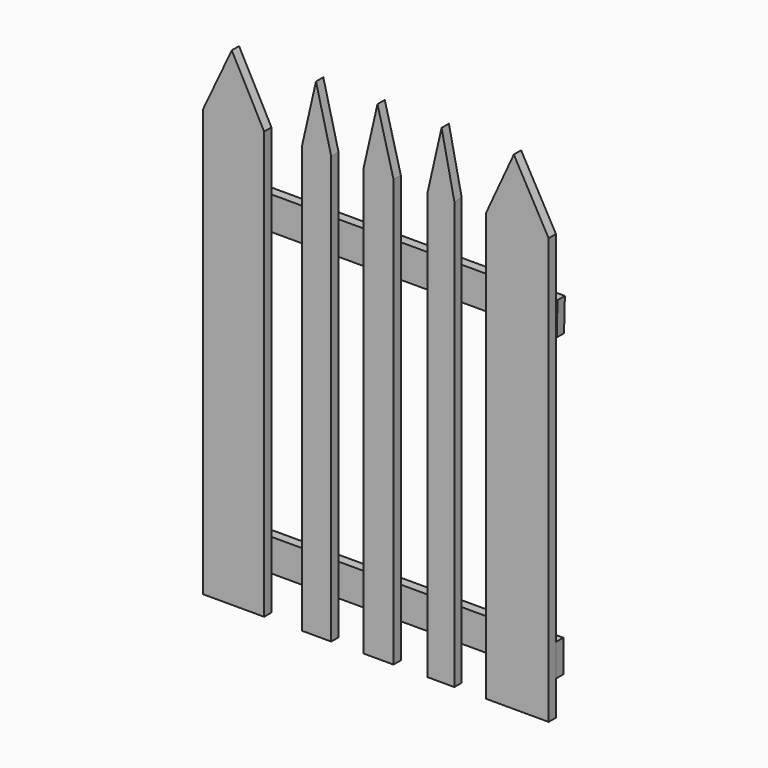
from build123d import *

# Parameters (mm, degrees)
F2_DEPTH = 3
F4_DEPTH = 3
F5_W     = 114.6537661552
F5_H     = 10.5847641826
F6_DEPTH = 3


with BuildPart() as f2:
    # F0 (on Front) → F2 (new body)
    with BuildSketch(Plane.XZ):
        Polygon((-45.9947801825, 52.4159106612), (-45.9947801825, -87.5840893388), (-36.4417050134, -87.5840893388), (-36.4417050134, 52.4159106612), (-41.430143982, 72.4159106612), align=None)
    extrude(amount=F2_DEPTH)


with BuildPart() as f2b:
    # F0 (on Front) → F2, piece 2 (new body)
    with BuildSketch(Plane.XZ):
        Polygon((-78.4224574716, 52.4159106612), (-78.4224574716, -87.5840893388), (-58.4224574716, -87.5840893388), (-58.4224574716, 52.4159106612), (-69.0362897647, 72.4159106612), align=None)
    extrude(amount=F2_DEPTH)


with BuildPart() as f2c:
    # F0 (on Front) → F2, piece 3 (new body)
    with BuildSketch(Plane.XZ):
        Polygon((-4.8327921589, 52.4159106612), (-4.8327921589, -87.5840893388), (3.9241904943, -87.5840893388), (3.9241904943, 52.4159106612), (-0.2681559585, 72.4159106612), align=None)
    extrude(amount=F2_DEPTH)


with BuildPart() as f2d:
    # F0 (on Front) → F2, piece 4 (new body)
    with BuildSketch(Plane.XZ):
        Polygon((-25.8491035459, 52.4159106612), (-25.8491035459, -87.5840893388), (-16.0306682906, -87.5840893388), (-16.0306682906, 52.4159106612), (-21.2844673454, 72.4159106612), align=None)
    extrude(amount=F2_DEPTH)


with BuildPart() as f2e:
    # F0 (on Front) → F2, piece 5 (new body)
    with BuildSketch(Plane.XZ):
        Polygon((14.2126074547, 52.4159106612), (14.2126074547, -87.5840893388), (34.8163917661, -87.5840893388), (34.8163917661, 51.9644655287), (23.4017428011, 72.4159106612), align=None)
    extrude(amount=F2_DEPTH)


with BuildPart() as f2f:
    # F1 (on face) → F2, piece 6 (new body)
    with BuildSketch(Plane.XZ):
        Polygon((-69.0362897647, 72.4159106612), (-78.4224574716, 52.4159106612), (-78.4224574716, -87.5840893388), (-58.4224574716, -87.5840893388), (-58.4224574716, 52.4159106612), align=None)
    extrude(amount=F2_DEPTH)


with BuildPart() as f4:
    # F3 (on Front) → F4 (new body)
    with BuildSketch(Plane.XZ):
        Polygon((35.0640527904, 22.2054086626), (35.3354588151, 33.0615788698), (-78.3829391003, 33.0615788698), (-78.3829391003, 22.2054086626), align=None)
    extrude(amount=-F4_DEPTH)


with BuildPart() as f6:
    # F5 (on face) → F6 (new body)
    with BuildSketch(Plane(origin=(0, 0, 0), x_dir=(-1, 0, 0), z_dir=(0, 1, 0))):
        with Locations((22.5104913116, -71.0219629109)):
            Rectangle(F5_W, F5_H)
    extrude(amount=F6_DEPTH)


solid = Compound([f2.part, f2b.part, f2c.part, f2d.part, f2e.part, f2f.part, f4.part, f6.part])
